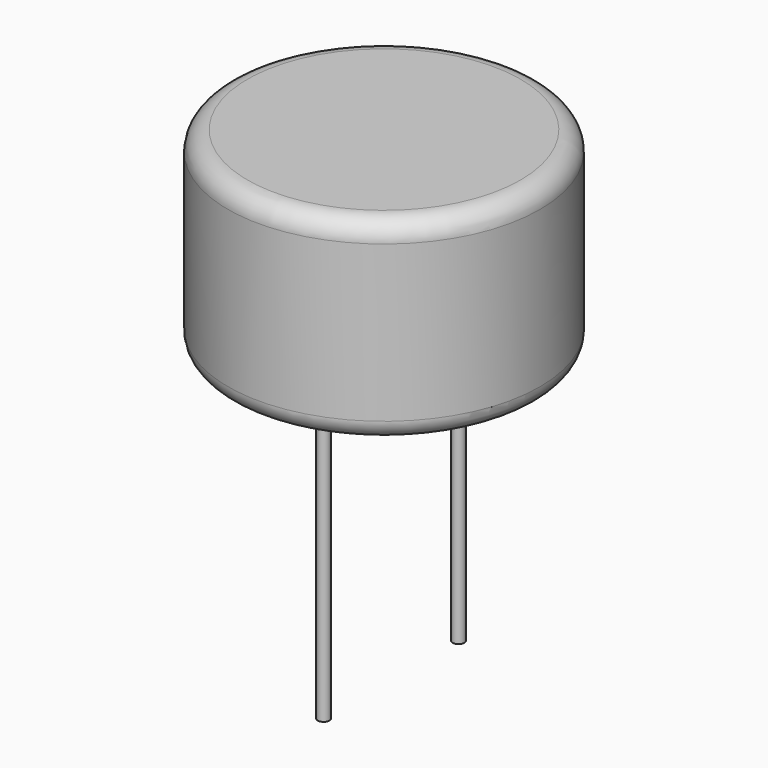
from build123d import *

# Parameters (mm, degrees)
F0_R     = 8
F1_DEPTH = 10
F2_R     = 0.3
F3_DEPTH = 15
F4_R     = 1


with BuildPart() as f1:
    # F0 (on Top) → F1 (new body)
    with BuildSketch(Plane.XY):
        Circle(F0_R)
        Circle(F0_R)
    extrude(amount=F1_DEPTH)

    # F2 (on face) → F3 (join)
    with BuildSketch(Plane(origin=(0, 0, 0), x_dir=(1, 0, 0), z_dir=(0, 0, -1))):
        with Locations((0, 3.868304)):
            Circle(F2_R)
        with Locations((0, -4.767918)):
            Circle(F2_R)
    extrude(amount=F3_DEPTH)

    # F4
    f4_edges = [f1.edges().sort_by_distance(p)[0] for p in [
        (-8, 0, 10),
        (-8, 0, 0),
    ]]
    fillet(f4_edges, radius=F4_R)


solid = f1.part
